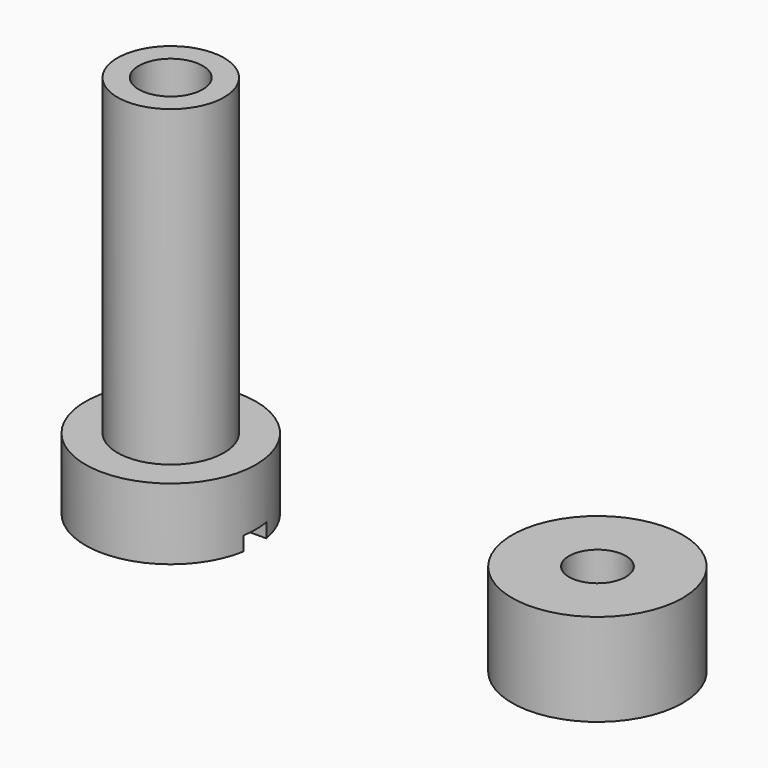
from build123d import *

# Parameters (mm, degrees)
F0_R            = 6
F1_DEPTH        = 6.5
F2_R            = 6
F3_DEPTH        = 5
F4_R            = 3.75
F5_DEPTH        = 22
F6_W            = 11.8321595662
F6_H            = 2
F7_DEPTH        = 1
F10_D           = 4
F10_CBORE_D     = 10
F10_CBORE_DEPTH = 3
F11_R           = 2.25
F12_DEPTH       = 6


with BuildPart() as f1:
    # F0 (on Top) → F1 (new body)
    with BuildSketch(Plane.XY):
        Circle(F0_R)
    extrude(amount=F1_DEPTH)

    # F10 (through all)
    with Locations(Plane(origin=(0, 0, 0), x_dir=(1, 0, 0), z_dir=(0, 0, -1))):
        with Locations((0, 0)):
            CounterBoreHole(F10_D / 2, F10_CBORE_D / 2, F10_CBORE_DEPTH)


with BuildPart() as f3:
    # F2 (on Top) → F3 (new body)
    with BuildSketch(Plane.XY):
        with Locations((-29.9971198939, 0)):
            Circle(F2_R)
    extrude(amount=F3_DEPTH)

    # F4 (on face) → F5 (join)
    with BuildSketch(Plane.XY.offset(5)):
        with Locations((-29.9971198939, 0)):
            Circle(F4_R)
    extrude(amount=F5_DEPTH)

    # F6 (on face) → F7 (cut)
    with BuildSketch(Plane(origin=(0, 0, 0), x_dir=(1, 0, 0), z_dir=(0, 0, -1))):
        with BuildLine():
            Line((-35.913199677, -1), (-35.913199677, 1))
            ThreePointArc((-35.913199677, 1), (-35.9971198939, 0), (-35.913199677, -1))
        make_face()
        with Locations((-29.9971198939, 0)):
            Rectangle(F6_W, F6_H)
        with BuildLine():
            ThreePointArc((-23.9971198939, 0), (-24.0181367572, 0.5017575617), (-24.0810401108, 1))
            Line((-24.0810401108, 1), (-24.0810401108, -1))
            ThreePointArc((-24.0810401108, -1), (-24.0181367572, -0.5017575617), (-23.9971198939, 0))
        make_face()
    extrude(amount=-F7_DEPTH, mode=Mode.SUBTRACT)

    # F11 (on face) → F12 (cut)
    with BuildSketch(Plane.XY.offset(27)):
        with Locations((-29.9971198939, 0)):
            Circle(F11_R)
    extrude(amount=-F12_DEPTH, mode=Mode.SUBTRACT)


solid = Compound([f1.part, f3.part])
